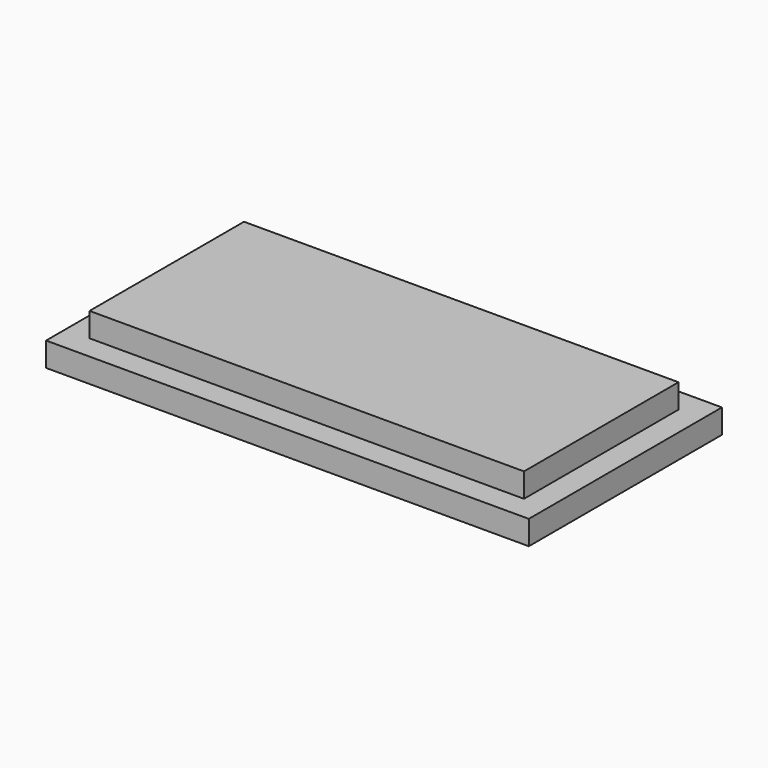
from build123d import *

# Parameters (mm, degrees)
F0_W     = 91.44
F0_H     = 40.64
F1_DEPTH = 5.08
F0_W_2   = 101.6
F0_H_2   = 50.8
F2_DEPTH = 5.08
F3_DEPTH = 10.16


with BuildPart() as f1:
    # F0 (on Top) → F1 (new body)
    with BuildSketch(Plane.XY):
        Rectangle(F0_W, F0_H)
    extrude(amount=F1_DEPTH)

    # F0 (on Top) → F2 (join)
    with BuildSketch(Plane.XY):
        Rectangle(F0_W_2, F0_H_2)
        Rectangle(F0_W, F0_H, mode=Mode.SUBTRACT)
    extrude(amount=F2_DEPTH)

    # F0 (on Top) → F3 (join)
    with BuildSketch(Plane.XY):
        Rectangle(F0_W, F0_H)
    extrude(amount=F3_DEPTH)


solid = f1.part
